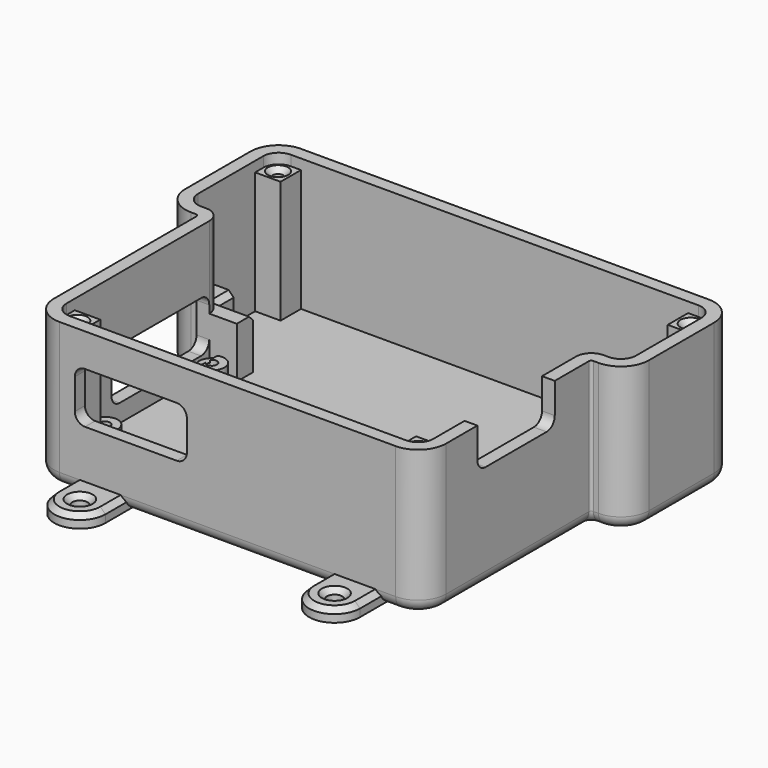
from build123d import *

# Parameters (mm, degrees)
PAD_DEPTH       = 26
FILLET_R        = 3
THICKNESS_T     = 2.5
SKETCH001_R     = 2.5
SKETCH001_R_2   = 1
PAD001_DEPTH    = 4
SKETCH007_W     = 19
SKETCH007_H     = 8
POCKET_DEPTH    = 5
PAD008_DEPTH    = 10
SKETCH013_W     = 22
SKETCH013_H     = 10
POCKET002_DEPTH = 5
SKETCH014_W     = 24
SKETCH014_H     = 10
POCKET003_DEPTH = 5
FILLET001_R     = 2
FILLET002_R     = 2
FILLET003_R     = 2
SKETCH015_W     = 5
SKETCH015_H     = 5
SKETCH015_R     = 1
PAD011_DEPTH    = 24
SKETCH016_R     = 1.5
PAD012_DEPTH    = 2.5
CHAMFER_SIZE    = 1
CHAMFER001_SIZE = 1
CHAMFER002_SIZE = 1


with BuildPart() as part:
    # Sketch → Pad (new body)
    with BuildSketch(Plane.XY):
        Polygon((-43, 22), (-43, 0), (-36, 0), (-36, -41), (36, -41), (36, 0), (43, 0), (43, 22), align=None)
    extrude(amount=PAD_DEPTH)

    # Fillet
    fillet_edges = [part.edges().sort_by_distance(p)[0] for p in [
        (-36, -41, 13),
        (36, -41, 13),
        (43, 0, 13),
        (-43, 0, 13),
        (-43, 22, 13),
        (43, 22, 13),
        (36, 0, 13),
        (-36, 0, 13),
    ]]
    fillet(fillet_edges, radius=FILLET_R)

    # Thickness
    thickness_openings = [part.faces().sort_by_distance(p)[0] for p in [
        (0, -8.19552, 26),
    ]]
    offset(amount=THICKNESS_T, openings=thickness_openings)

    # Sketch001 (on Face2 of Thickness) → Pad001 (join)
    with BuildSketch(Plane.XY):
        with Locations((-32.7, -6.5)):
            Circle(SKETCH001_R)
        with Locations((-32.7, -6.5)):
            Circle(SKETCH001_R_2, mode=Mode.SUBTRACT)
        with Locations((-32.7, -32.7)):
            Circle(SKETCH001_R)
        with Locations((-32.7, -32.7)):
            Circle(SKETCH001_R_2, mode=Mode.SUBTRACT)
        with Locations((32.7, -32.7)):
            Circle(SKETCH001_R)
        with Locations((32.7, -32.7)):
            Circle(SKETCH001_R_2, mode=Mode.SUBTRACT)
        with Locations((32.7, -6.5)):
            Circle(SKETCH001_R)
        with Locations((32.7, -6.5)):
            Circle(SKETCH001_R_2, mode=Mode.SUBTRACT)
    extrude(amount=PAD001_DEPTH)

    # Sketch007 (on Face24 of Pad001) → Pocket (cut)
    with BuildSketch(Plane.YZ.offset(38.5)):
        with Locations((-20.85, 22)):
            Rectangle(SKETCH007_W, SKETCH007_H)
    extrude(amount=-POCKET_DEPTH, mode=Mode.SUBTRACT)

    # Sketch009 (on Face2 of Pocket) → Pad008 (join)
    with BuildSketch(Plane.XY):
        Polygon((43, 5), (37.6, 5), (37.6, 1), (30.6, 1), (30.6, -3), (37.6, -3), (43, 0), align=None)
        Polygon((-43, 5), (-37.6, 5), (-37.6, 1), (-30.6, 1), (-30.6, -3), (-37.6, -3), (-43, 0), align=None)
    extrude(amount=PAD008_DEPTH)

    # Sketch013 → Pocket002 (cut)
    with BuildSketch(Plane.XZ.offset(43.5)):
        with Locations((-19, 14.5)):
            Rectangle(SKETCH013_W, SKETCH013_H)
    extrude(amount=-POCKET002_DEPTH, mode=Mode.SUBTRACT)

    # Sketch014 (on Face36 of Pocket002) → Pocket003 (cut)
    with BuildSketch(Plane(origin=(-38.5, 0, 0), x_dir=(0, -1, 0), z_dir=(-1, 0, 0))):
        with Locations((15, 8.5)):
            Rectangle(SKETCH014_W, SKETCH014_H)
    extrude(amount=-POCKET003_DEPTH, mode=Mode.SUBTRACT)

    # Fillet001
    fillet001_edges = [part.edges().sort_by_distance(p)[0] for p in [
        (-37.25, -3, 13.5),
        (-37.25, -3, 3.5),
        (-37.25, -27, 13.5),
        (-37.25, -27, 3.5),
    ]]
    fillet(fillet001_edges, radius=FILLET001_R)

    # Fillet002
    fillet002_edges = [part.edges().sort_by_distance(p)[0] for p in [
        (-30, -42.25, 9.5),
        (-30, -42.25, 19.5),
        (-8, -42.25, 19.5),
        (-8, -42.25, 9.5),
    ]]
    fillet(fillet002_edges, radius=FILLET002_R)

    # Fillet003
    fillet003_edges = [part.edges().sort_by_distance(p)[0] for p in [
        (37.25, -30.35, 18),
        (37.25, -11.35, 18),
    ]]
    fillet(fillet003_edges, radius=FILLET003_R)

    # Sketch015 (on Face10 of Fillet003) → Pad011 (join)
    with BuildSketch(Plane.XY):
        with Locations((-40.5, 19.5)):
            Rectangle(SKETCH015_W, SKETCH015_H)
        with Locations((-40.5, 19.5)):
            Circle(SKETCH015_R, mode=Mode.SUBTRACT)
        with Locations((40.5, 19.5)):
            Rectangle(SKETCH015_W, SKETCH015_H)
        with Locations((40.5, 19.5)):
            Circle(SKETCH015_R, mode=Mode.SUBTRACT)
        with Locations((33.5, -38.5)):
            Rectangle(SKETCH015_W, SKETCH015_H)
        with Locations((33.5, -38.5)):
            Circle(SKETCH015_R, mode=Mode.SUBTRACT)
        with Locations((-33.5, -38.5)):
            Rectangle(SKETCH015_W, SKETCH015_H)
        with Locations((-33.5, -38.5)):
            Circle(SKETCH015_R, mode=Mode.SUBTRACT)
    extrude(amount=PAD011_DEPTH)

    # Sketch016 (on Face110 of Pad011) → Pad012 (join)
    with BuildSketch(Plane(origin=(0, 0, -2.5), x_dir=(1, 0, 0), z_dir=(0, 0, -1))):
        with BuildLine():
            ThreePointArc((-20, 48.5), (-25, 53.5), (-30, 48.5))
            Line((-30, 48.5), (-30, 38.5))
            ThreePointArc((-30, 38.5), (-25, 33.5), (-20, 38.5))
            Line((-20, 48.5), (-20, 38.5))
        make_face()
        with Locations((-25, 48.5)):
            Circle(SKETCH016_R, mode=Mode.SUBTRACT)
        with BuildLine():
            ThreePointArc((30, 48.5), (25, 53.5), (20, 48.5))
            Line((20, 48.5), (20, 38.5))
            ThreePointArc((20, 38.5), (25, 33.5), (30, 38.5))
            Line((30, 48.5), (30, 38.5))
        make_face()
        with Locations((25, 48.5)):
            Circle(SKETCH016_R, mode=Mode.SUBTRACT)
        with BuildLine():
            ThreePointArc((-20, -19.5), (-25, -14.5), (-30, -19.5))
            Line((-30, -19.5), (-30, -29.5))
            ThreePointArc((-30, -29.5), (-25, -34.5), (-20, -29.5))
            Line((-20, -19.5), (-20, -29.5))
        make_face()
        with Locations((-25, -29.5)):
            Circle(SKETCH016_R, mode=Mode.SUBTRACT)
        with BuildLine():
            ThreePointArc((30, -19.5), (25, -14.5), (20, -19.5))
            Line((20, -19.5), (20, -29.5))
            ThreePointArc((20, -29.5), (25, -34.5), (30, -29.5))
            Line((30, -19.5), (30, -29.5))
        make_face()
        with Locations((25, -29.5)):
            Circle(SKETCH016_R, mode=Mode.SUBTRACT)
    extrude(amount=-PAD012_DEPTH)

    # Chamfer
    chamfer_edges = [part.edges().sort_by_distance(p)[0] for p in [
        (-20, -46, 0),
        (20, -46, 0),
        (-30, 27, 0),
        (20, 27, 0),
        (23.5, 29.5, 0),
        (-26.5, 29.5, 0),
        (-26.5, -48.5, 0),
        (23.5, -48.5, 0),
    ]]
    chamfer(chamfer_edges, length=CHAMFER_SIZE)

    # Chamfer001
    chamfer001_edges = [part.edges().sort_by_distance(p)[0] for p in [
        (-41.5, 19.5, 24),
        (39.5, 19.5, 24),
        (32.5, -38.5, 24),
        (-34.5, -38.5, 24),
    ]]
    chamfer(chamfer001_edges, length=CHAMFER001_SIZE)

    # Chamfer002
    chamfer002_edges = [part.edges().sort_by_distance(p)[0] for p in [
        (-37.6, 3, 10),
        (-34.1, 1, 10),
        (34.1, 1, 10),
        (37.6, 3, 10),
    ]]
    chamfer(chamfer002_edges, length=CHAMFER002_SIZE)


solid = part.part
